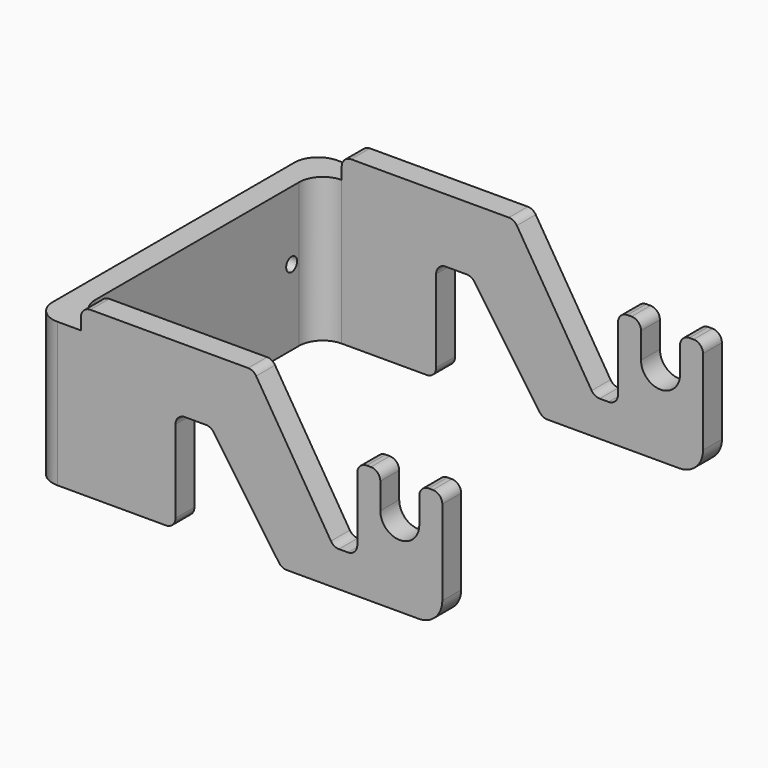
from build123d import *

# Parameters (mm, degrees)
PAD_DEPTH       = 35
SKETCH001_W     = 10
SKETCH001_H     = 4.5
POCKET_DEPTH    = 74.001
FILLET_R        = 2
FILLET001_R     = 5
SKETCH002_R     = 1.45
POCKET001_DEPTH = 5


with BuildPart() as part:
    # Sketch → Pad (new body)
    with BuildSketch(Plane.XY):
        Polygon((-43.25, 37), (43.25, 37), (43.25, 32), (-38.25, 32), (-38.25, -32), (43.25, -32), (43.25, -37), (-43.25, -37), align=None)
    extrude(amount=PAD_DEPTH)

    # Sketch001 → Pocket (cut, through all)
    with BuildSketch(Plane(origin=(0, 37, 0), x_dir=(-1, 0, 0), z_dir=(0, 1, 0))):
        with BuildLine():
            ThreePointArc((-38.375, 17.5), (-34.25, 13.375), (-30.125, 17.5))
            Line((-30.125, 17.5), (-30.125, 25))
            Line((-30.125, 25), (-25.25, 25))
            Line((-25.25, 25), (-25.25, 7.5))
            Line((-25.25, 7.5), (-20.25, 7.5))
            Line((-20.25, 7.5), (-3.25, 35))
            Line((-43.25, 35), (-3.25, 35))
            Line((-43.25, 25), (-43.25, 35))
            Line((-38.375, 25), (-43.25, 25))
            Line((-38.375, 17.5), (-38.375, 25))
        make_face()
        with Locations((38.25, 32.75)):
            Rectangle(SKETCH001_W, SKETCH001_H)
        Polygon((5.75, 21.5), (13.25, 21.5), (13.25, 0), (-9.25, 0), align=None)
    extrude(amount=-POCKET_DEPTH, mode=Mode.SUBTRACT)

    # Fillet
    fillet_edges = [part.edges().sort_by_distance(p)[0] for p in [
        (43.25, 34.5, 25),
        (38.375, 34.5, 25),
        (30.125, 34.5, 25),
        (25.25, 34.5, 25),
        (43.25, -34.5, 25),
        (38.375, -34.5, 25),
        (30.125, -34.5, 25),
        (25.25, -34.5, 25),
        (3.25, -34.5, 35),
        (-33.25, -34.5, 35),
        (-33.25, 34.5, 35),
        (3.25, 34.5, 35),
        (20.25, -34.5, 7.5),
        (20.25, 34.5, 7.5),
        (25.25, -34.5, 7.5),
        (25.25, 34.5, 7.5),
        (9.25, 34.5, 0),
        (9.25, -34.5, 0),
        (-5.75, -34.5, 21.5),
        (-5.75, 34.5, 21.5),
        (-13.25, 34.5, 0),
        (-13.25, -34.5, 0),
        (-13.25, 34.5, 21.5),
        (-13.25, -34.5, 21.5),
    ]]
    fillet(fillet_edges, radius=FILLET_R)

    # Fillet001
    fillet001_edges = [part.edges().sort_by_distance(p)[0] for p in [
        (43.25, 34.5, 0),
        (43.25, -34.5, 0),
        (-38.25, -32, 15.25),
        (-43.25, 37, 15.25),
        (-38.25, 32, 15.25),
        (-43.25, -37, 15.25),
    ]]
    fillet(fillet001_edges, radius=FILLET001_R)

    # Sketch002 → Pocket001 (cut)
    with BuildSketch(Plane(origin=(-43.25, 0, 0), x_dir=(0, -1, 0), z_dir=(-1, 0, 0))):
        with Locations((-25, 16)):
            Circle(SKETCH002_R)
        with Locations((25, 16)):
            Circle(SKETCH002_R)
    extrude(amount=-POCKET001_DEPTH, mode=Mode.SUBTRACT)


solid = part.part
